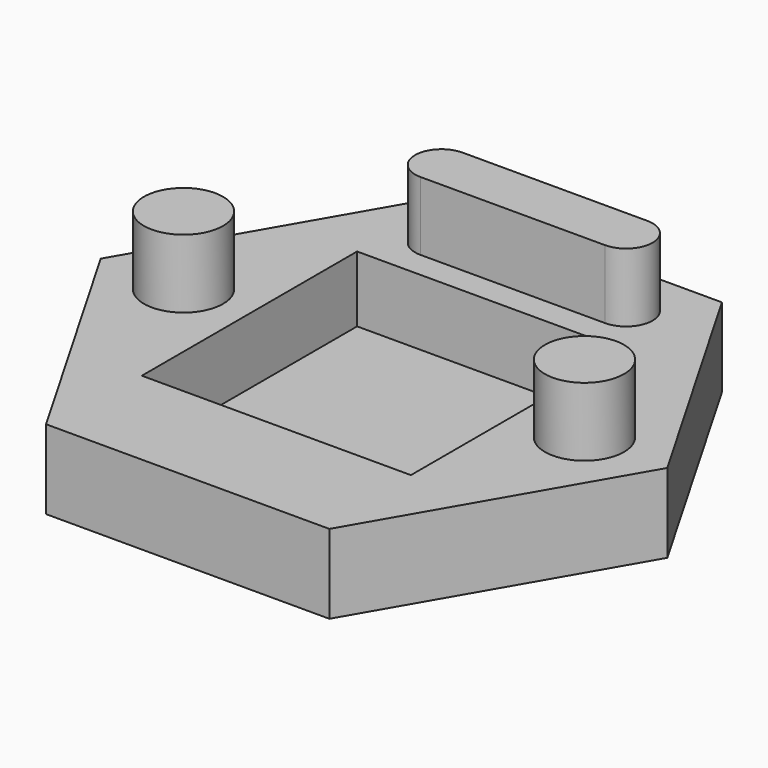
from build123d import *

# Parameters (mm, degrees)
PAD002_DEPTH    = 3
SKETCH004_R     = 1.5
PAD004_DEPTH    = 2.6
SKETCH005_W     = 10.2
SKETCH005_H     = 10.2
POCKET001_DEPTH = 2.5


with BuildPart() as part:
    # Sketch002 → Pad002 (new body)
    with BuildSketch(Plane.XY):
        Polygon((-5.369358, 9.3), (-10.738715, 0), (-5.369358, -9.3), (5.369358, -9.3), (10.738715, 0), (5.369358, 9.3), align=None)
    extrude(amount=PAD002_DEPTH)


with BuildPart() as part_1:
    # Body002 placement: moved
    add(part.part.moved(Location((0, 0, 3))))


with BuildPart() as part_2:
    # Clone placement: moved
    add(part_1.part.moved(Location((0, 0, -3))))

    # Sketch004 (on DatumPlane) → Pad004 (new body)
    with BuildSketch(Plane.XY.offset(3)):
        with Locations((-7.6, 0)):
            Circle(SKETCH004_R)
        with Locations((7.6, 0)):
            Circle(SKETCH004_R)
        with BuildLine():
            ThreePointArc((-3.5, 8.1), (-4.5, 7.1), (-3.5, 6.1))
            Line((-3.5, 6.1), (3.5, 6.1))
            ThreePointArc((3.5, 6.1), (4.5, 7.1), (3.5, 8.1))
            Line((3.5, 8.1), (-3.5, 8.1))
        make_face()
    extrude(amount=PAD004_DEPTH)

    # Sketch005 (on DatumPlane) → Pocket001 (cut)
    with BuildSketch(Plane.XY.offset(3)):
        Rectangle(SKETCH005_W, SKETCH005_H)
    extrude(amount=-POCKET001_DEPTH, mode=Mode.SUBTRACT)


solid = part_2.part
